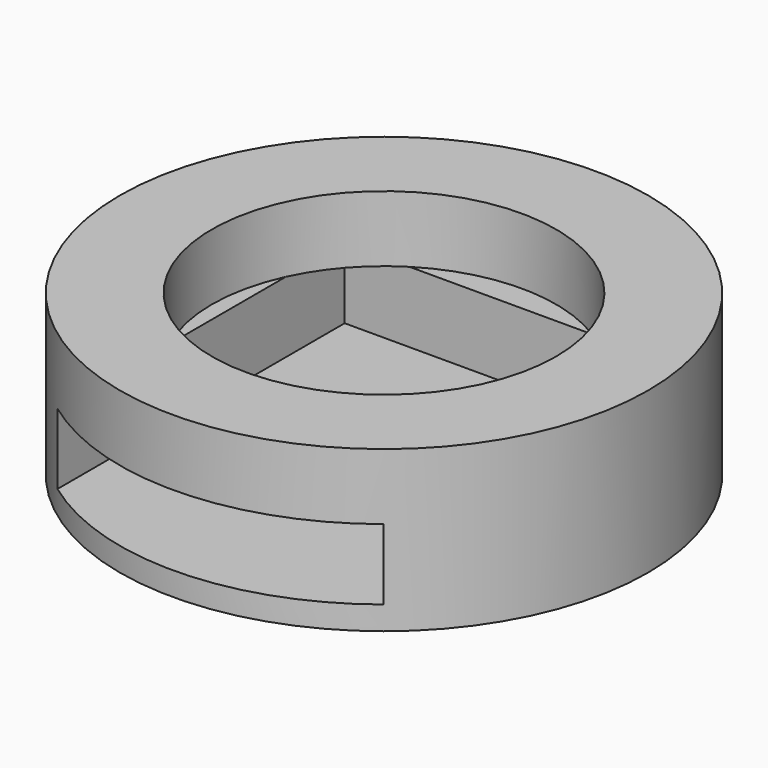
from build123d import *

# Parameters (mm, degrees)
SKETCH025_W  = 34
SKETCH025_H  = 50
PAD023_DEPTH = 7.5
SKETCH017_R  = 18.25
PAD015_DEPTH = 7
SKETCH016_R  = 28
PAD014_DEPTH = 17


with BuildPart() as body026:
    # Sketch025 → Pad023 (new body)
    with BuildSketch(Plane.XY):
        with Locations((0.449597, -4.527582)):
            Rectangle(SKETCH025_W, SKETCH025_H)
    extrude(amount=PAD023_DEPTH)


with BuildPart() as body026_1:
    # Body026 placement: moved
    add(body026.part.moved(Location((0, -42, -72.5))))


with BuildPart() as body016:
    # Sketch017 → Pad015 (new body)
    with BuildSketch(Plane.XY.offset(2)):
        with Locations((0, -34)):
            Circle(SKETCH017_R)
    extrude(amount=PAD015_DEPTH)


with BuildPart() as body016_1:
    # Body016 placement: moved
    add(body016.part.moved(Location((0, -3, -67))))


with BuildPart() as bottom:
    # Sketch016 → Pad014 (new body)
    with BuildSketch(Plane.XY):
        with Locations((0, -34)):
            Circle(SKETCH016_R)
    extrude(amount=PAD014_DEPTH)


with BuildPart() as bottom_1:
    # Body015 placement: moved
    add(bottom.part.moved(Location((0, -3, -75))))

    # Cut034: cut Body016
    add(body016_1.part, mode=Mode.SUBTRACT)

    # Cut035: cut Body026
    add(body026_1.part, mode=Mode.SUBTRACT)


solid = bottom_1.part
